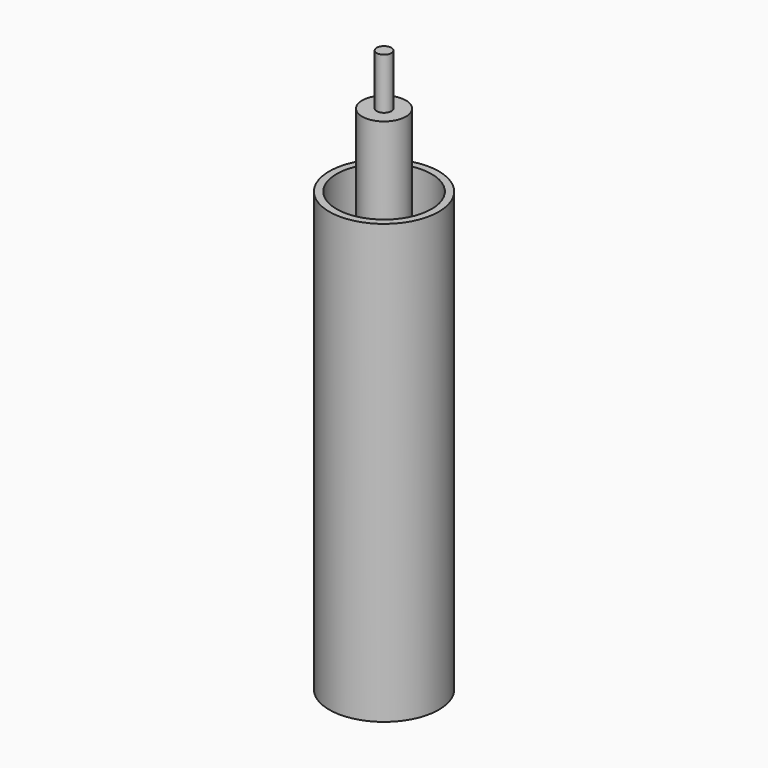
from build123d import *

# Parameters (mm, degrees)
F0_R     = 7.5
F0_R_2   = 6.5
F1_DEPTH = 60
F0_R_3   = 1
F2_DEPTH = 77
F3_R     = 3
F4_DEPTH = 70


with BuildPart() as f1:
    # F0 (on Top) → F1 (new body)
    with BuildSketch(Plane.XY):
        Circle(F0_R)
        Circle(F0_R_2, mode=Mode.SUBTRACT)
    extrude(amount=F1_DEPTH)


with BuildPart() as f2:
    # F0 (on Top) → F2 (new body)
    with BuildSketch(Plane.XY):
        Circle(F0_R_3)
    extrude(amount=F2_DEPTH)


with BuildPart() as f4:
    # F3 (on Top) → F4 (new body)
    with BuildSketch(Plane.XY):
        Circle(F3_R)
    extrude(amount=F4_DEPTH)


solid = Compound([f1.part, f2.part, f4.part])
